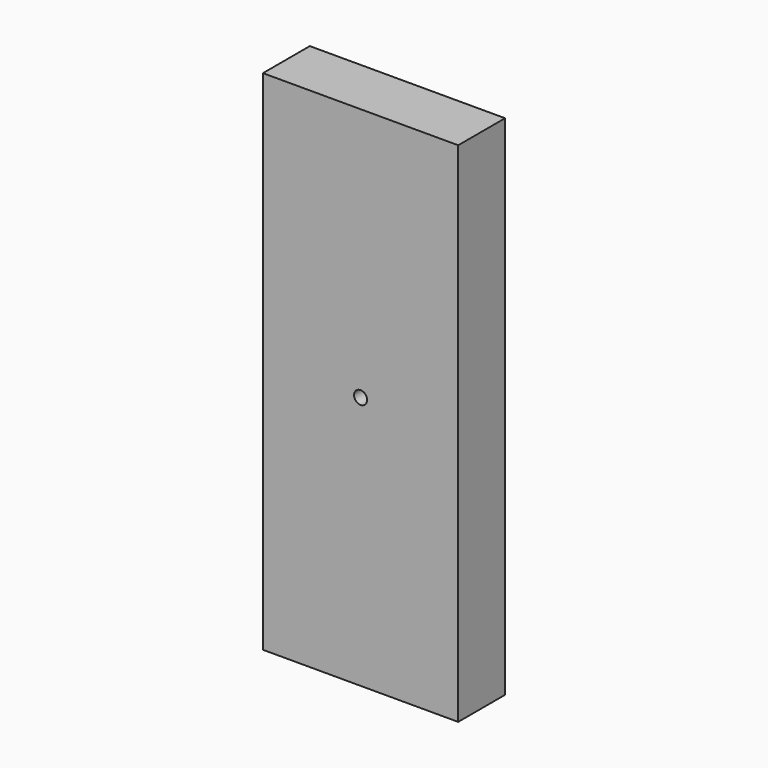
from build123d import *

# Parameters (mm, degrees)
F0_W     = 63.5
F0_H     = 165.1
F1_DEPTH = 19.05
F2_R     = 2.12725
F3_DEPTH = 19.051


with BuildPart() as f1:
    # F0 (on Front) → F1 (new body)
    with BuildSketch(Plane.XZ):
        Rectangle(F0_W, F0_H)
    extrude(amount=F1_DEPTH)

    # F2 (on face) → F3 (cut, through all)
    with BuildSketch(Plane.XZ.offset(19.05)):
        Circle(F2_R)
    extrude(amount=-F3_DEPTH, mode=Mode.SUBTRACT)


solid = f1.part
